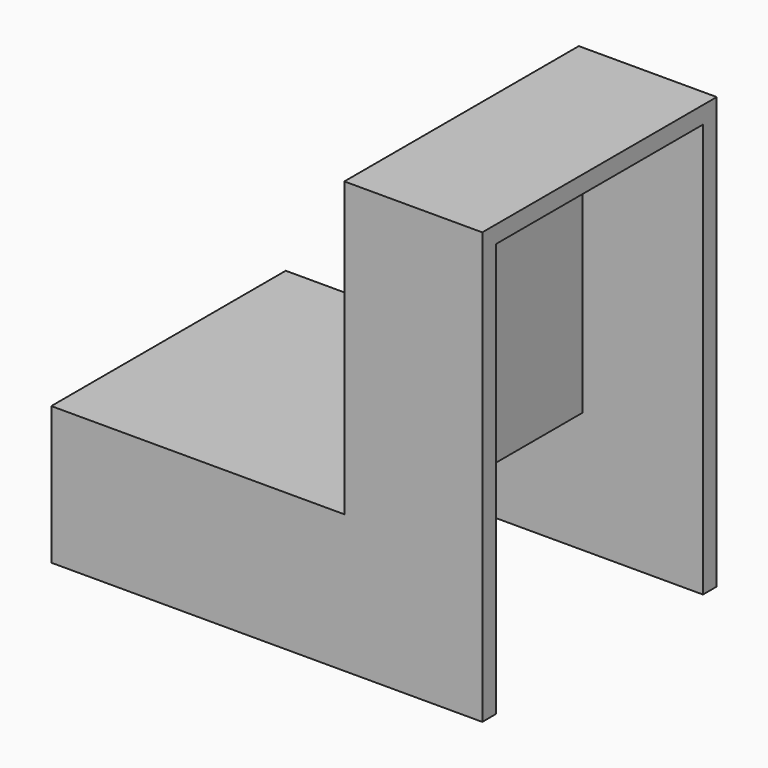
from build123d import *

# Parameters (mm, degrees)
F0_W     = 17
F0_H     = 8
F0_W_2   = 8
F0_H_2   = 17
F1_DEPTH = 17
F2_W     = 24
F2_H     = 15
F3_DEPTH = 7
F4_W     = 15
F4_H     = 17
F5_DEPTH = 7
F7_D     = 1


with BuildPart() as f1:
    # F0 (on Front) → F1 (new body)
    with BuildSketch(Plane.XZ):
        with Locations((-51.656717, 24.650854)):
            Rectangle(F0_W, F0_H)
        with Locations((-39.156717, 37.150854)):
            Rectangle(F0_W_2, F0_H_2)
        with Locations((-39.156717, 24.650854)):
            Rectangle(F0_W_2, F0_H)
    extrude(amount=F1_DEPTH)

    # F2 (on face) → F3 (cut)
    with BuildSketch(Plane(origin=(0, 0, 20.650854), x_dir=(1, 0, 0), z_dir=(0, 0, -1))):
        with Locations((-47.156717, 8.5)):
            Rectangle(F2_W, F2_H)
    extrude(amount=-F3_DEPTH, mode=Mode.SUBTRACT)

    # F4 (on face) → F5 (cut)
    with BuildSketch(Plane.YZ.offset(-35.156717)):
        with Locations((-8.5, 36.150854)):
            Rectangle(F4_W, F4_H)
    extrude(amount=-F5_DEPTH, mode=Mode.SUBTRACT)

    # F7 (through all)
    with Locations(Plane.YZ.offset(-42.156717)):
        with Locations((-14.552529, 31.091157), (-14.552529, 43.474194)):
            Hole(F7_D / 2)


solid = f1.part
